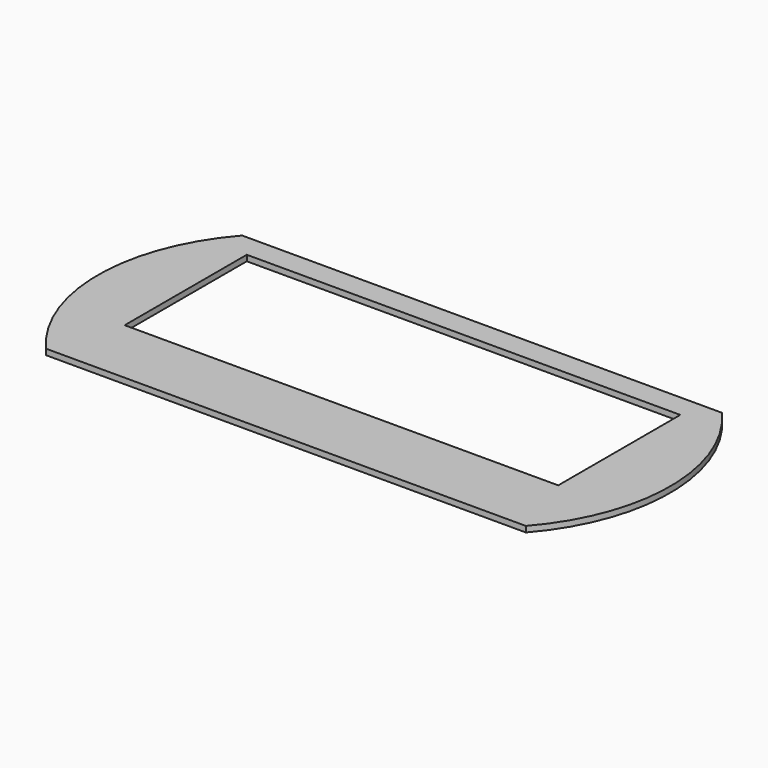
from build123d import *

# Parameters (mm, degrees)
F0_W     = 1875
F0_H     = 660
F1_DEPTH = 25


with BuildPart() as f1:
    # F0 (on Top) → F1 (new body)
    with BuildSketch(Plane.XY):
        with BuildLine():
            Line((1037.5, 430), (-1037.5, 430))
            ThreePointArc((-1037.5, 430), (-1237.5, -100), (-1037.5, -630))
            Line((-1037.5, -630), (1037.5, -630))
            ThreePointArc((1037.5, -630), (1237.5, -100), (1037.5, 430))
        make_face()
        Rectangle(F0_W, F0_H, mode=Mode.SUBTRACT)
    extrude(amount=F1_DEPTH)


solid = f1.part
